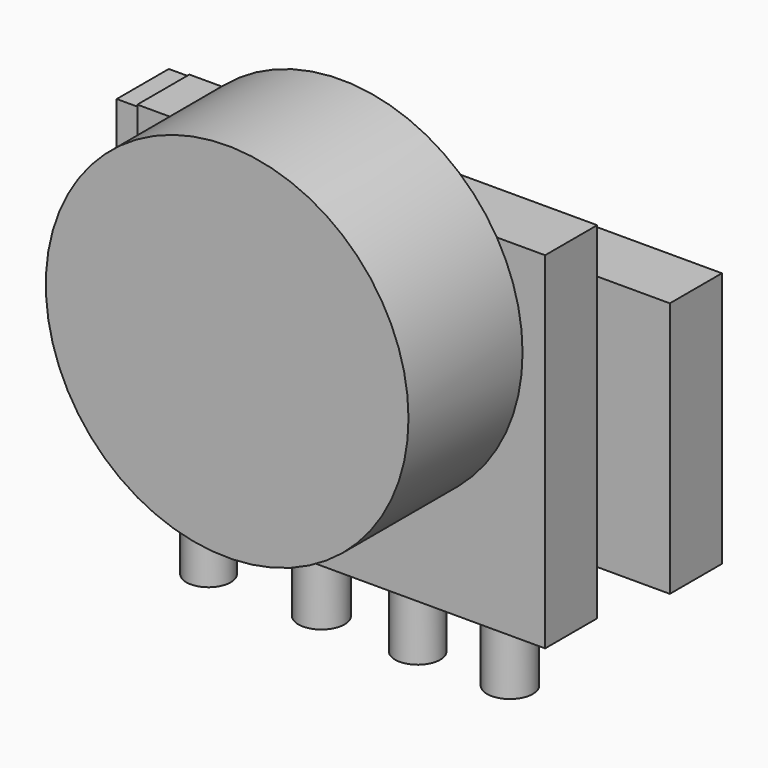
from build123d import *

# Parameters (mm, degrees)
F0_W     = 159.117624
F0_H     = 135.05447
F1_DEPTH = 25.4
F2_R     = 70.761251
F3_DEPTH = 55.626
F4_R     = 8.644359
F4_R_2   = 9.020495
F4_R_3   = 8.787981
F4_R_4   = 8.934689
F5_DEPTH = 25.4
F6_W     = 215.815008
F6_H     = 99.81057
F7_DEPTH = 25.4


with BuildPart() as f1:
    # F0 (on Front) → F1 (new body)
    with BuildSketch(Plane.XZ):
        Rectangle(F0_W, F0_H)
    extrude(amount=F1_DEPTH)

    # F2 (on face) → F3 (join)
    with BuildSketch(Plane.XZ.offset(25.4)):
        with Locations((0, 31.224668)):
            Circle(F2_R)
    extrude(amount=F3_DEPTH)

    # F4 (on face) → F5 (join)
    with BuildSketch(Plane(origin=(0, 0, -67.527235), x_dir=(1, 0, 0), z_dir=(0, 0, -1))):
        with Locations((-61.597422, 13.11885)):
            Circle(F4_R)
        with Locations((-17.532768, 13.11885)):
            Circle(F4_R_2)
        with Locations((20.015284, 13.11885)):
            Circle(F4_R_3)
        with Locations((56.011762, 13.11885)):
            Circle(F4_R_4)
    extrude(amount=F5_DEPTH)

    # F6 (on face) → F7 (join)
    with BuildSketch(Plane(origin=(0, 0, 0), x_dir=(-1, 0, 0), z_dir=(0, 1, 0))):
        Rectangle(F6_W, F6_H)
    extrude(amount=F7_DEPTH)


solid = f1.part
